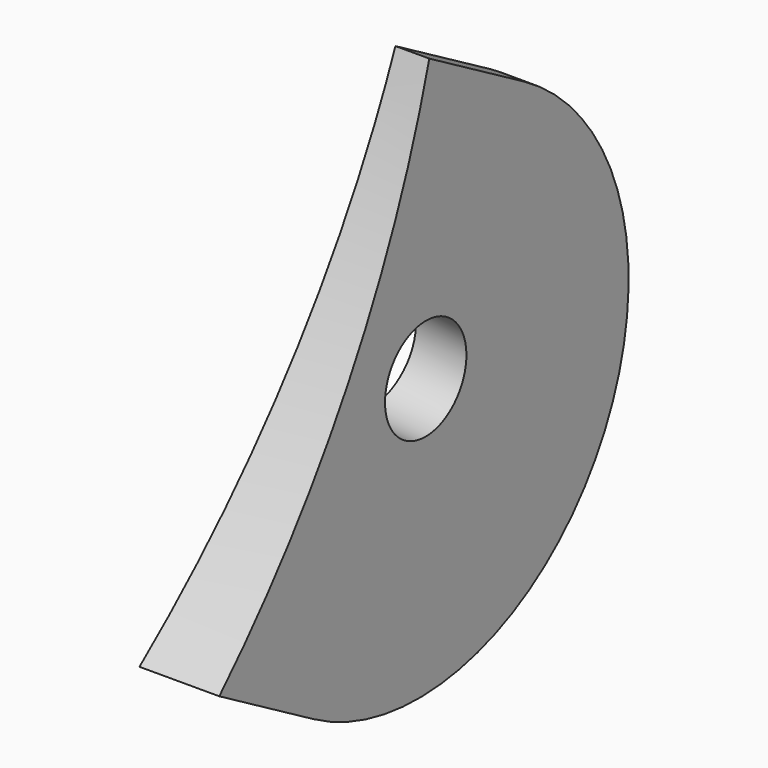
from build123d import *

# Parameters (mm, degrees)
PAD040_DEPTH         = 42
SKETCH121_W          = 51.449978
SKETCH121_H          = 41.216857
POCKET061_DEPTH      = 2.357074
POCKET061_DEPTH_BACK = 0.001
SKETCH122_R          = 1.5
POCKET062_DEPTH      = 9.321248
POCKET062_DEPTH_BACK = 0.001


with BuildPart() as part:
    # Sketch120 (on DatumPlane) → Pad040 (new body)
    with BuildSketch(Plane(origin=(6, 0, 0), x_dir=(1, 0, 0), z_dir=(0, -0.866025, 0.5))):
        Polygon((-6, 7.75), (-6, -7.75), (-8.356074, -7.75), (-7, 7.75), align=None)
    extrude(amount=-PAD040_DEPTH)

    # Sketch121 → Pocket061 (cut, two sides)
    with BuildSketch(Plane.YZ) as pocket061_sk:
        with Locations((16.010519, -12.541656)):
            Rectangle(SKETCH121_W, SKETCH121_H)
        with BuildLine():
            ThreePointArc((21.223867, -21.202535), (25.980762, -15), (28.973867, -7.779141))
            Line((28.973867, -7.779141), (32.453838, -9.788303))
            ThreePointArc((24.703838, -23.211697), (35.290535, -20.375), (32.453838, -9.788303))
            Line((21.223867, -21.202535), (24.703838, -23.211697))
        make_face(mode=Mode.SUBTRACT)
    extrude(amount=-POCKET061_DEPTH, mode=Mode.SUBTRACT)
    extrude(pocket061_sk.sketch, amount=POCKET061_DEPTH_BACK, mode=Mode.SUBTRACT)

    # Sketch122 (on DatumPlane) → Pocket062 (cut, two sides)
    with BuildSketch(Plane(origin=(6, 0, 0), x_dir=(0.087156, 0.498097, 0.86273), z_dir=(0.996195, -0.043578, -0.075479))) as pocket062_sk:
        with Locations((0, -33)):
            Circle(SKETCH122_R)
    extrude(amount=-POCKET062_DEPTH, mode=Mode.SUBTRACT)
    extrude(pocket062_sk.sketch, amount=POCKET062_DEPTH_BACK, mode=Mode.SUBTRACT)


with BuildPart() as part_1:
    # Body022023 placement: moved
    add(part.part.moved(Location((123, 0, 835))))


solid = part_1.part
